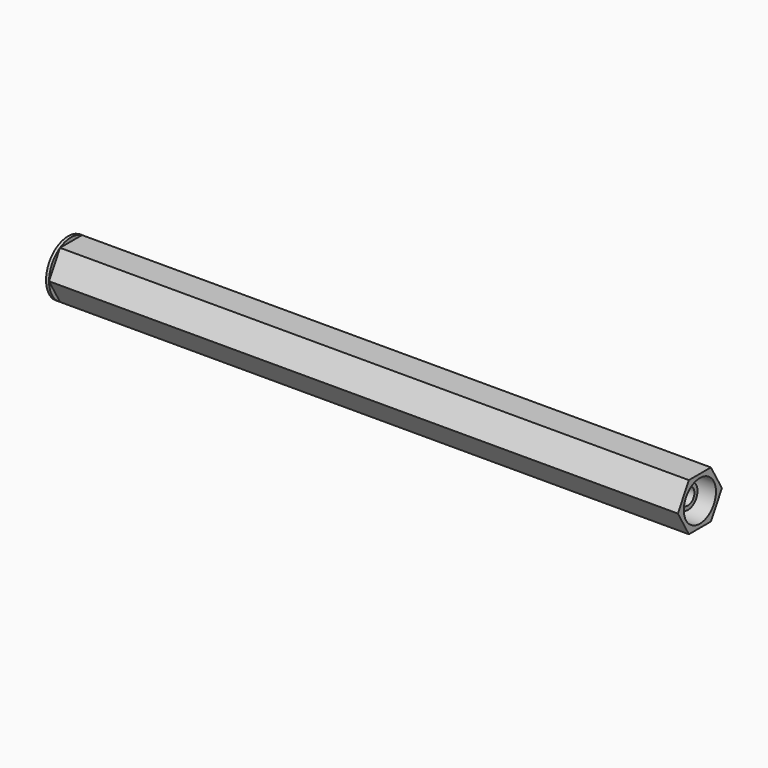
from build123d import *

# Parameters (mm, degrees)
F0_R     = 2
F0_R_2   = 1.35
F1_DEPTH = 104
F2_R     = 3.375
F3_DEPTH = 106
F4_R     = 4.618802
F4_R_2   = 3.375
F5_DEPTH = 0.5


with BuildPart() as f1:
    # F0 (on Right) → F1 (new body)
    with BuildSketch(Plane.YZ):
        Circle(F0_R)
        Circle(F0_R_2, mode=Mode.SUBTRACT)
    extrude(amount=F1_DEPTH)


with BuildPart() as f3:
    # F2 (on Right) → F3 (new body)
    with BuildSketch(Plane.YZ):
        Polygon((-2.309401, 4), (-4.618802, 0), (-2.309401, -4), (2.309401, -4), (4.618802, 0), (2.309401, 4), align=None)
        Circle(F2_R, mode=Mode.SUBTRACT)
    extrude(amount=F3_DEPTH)

    # F4 (on Right) → F5 (join)
    with BuildSketch(Plane.YZ):
        Circle(F4_R)
        Circle(F4_R_2, mode=Mode.SUBTRACT)
    extrude(amount=F5_DEPTH)


solid = Compound([f1.part, f3.part])
